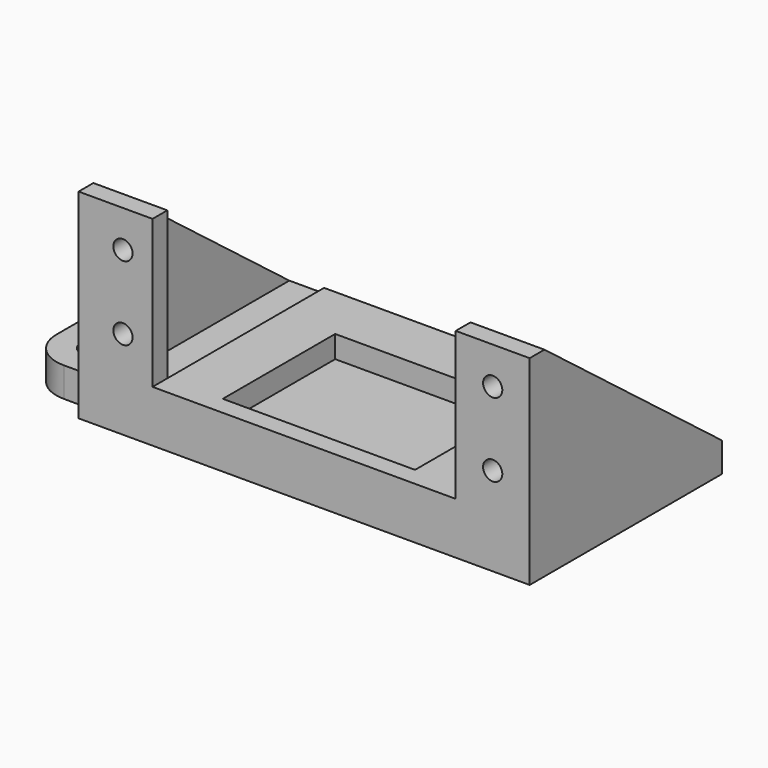
from build123d import *

# Parameters (mm, degrees)
F1_R      = 1.75
F1_W      = 26
F1_H      = 19
F1_W_2    = 2.5
F1_H_2    = 2.5
F1_W_3    = 7.5
F2_DEPTH  = 4
F3_DEPTH  = 7
F4_DEPTH  = 27
F6_DEPTH  = 2.5
F8_DEPTH  = 2.5
F9_R      = 5
F10_R     = 1.3
F11_DEPTH = 25


with BuildPart() as f2:
    # F1 (on Top) → F2 (new body)
    with BuildSketch(Plane.XY):
        Polygon((34, 35), (36.5, 35), (44, 35), (44, 61.5), (85, 61.5), (85, 35), (92.5, 35), (95, 35), (95, 65), (36.5, 65), (25, 65), (25, 35), align=None)
        with Locations((30, 40)):
            Circle(F1_R, mode=Mode.SUBTRACT)
        with Locations((90, 40)):
            Circle(F1_R, mode=Mode.SUBTRACT)
        with Locations((30, 50)):
            Circle(F1_R, mode=Mode.SUBTRACT)
        with Locations((30, 60)):
            Circle(F1_R, mode=Mode.SUBTRACT)
        with Locations((90, 50)):
            Circle(F1_R, mode=Mode.SUBTRACT)
        with Locations((90, 60)):
            Circle(F1_R, mode=Mode.SUBTRACT)
        Polygon((44, 61.5), (44, 35), (51.5, 35), (51.5, 54), (77.5, 54), (77.5, 35), (85, 35), (85, 61.5), align=None)
        with Locations((64.5, 44.5)):
            Rectangle(F1_W, F1_H)
        with Locations((35.25, 33.75)):
            Rectangle(F1_W_2, F1_H_2)
        with Locations((40.25, 33.75)):
            Rectangle(F1_W_3, F1_H_2)
        Polygon((51.5, 35), (44, 35), (44, 32.5), (85, 32.5), (85, 35), (77.5, 35), align=None)
        with Locations((88.75, 33.75)):
            Rectangle(F1_W_3, F1_H_2)
        with Locations((93.75, 33.75)):
            Rectangle(F1_W_2, F1_H_2)
    extrude(amount=F2_DEPTH)

    # F1 (on Top) → F3 (join)
    with BuildSketch(Plane.XY):
        Polygon((44, 61.5), (44, 35), (51.5, 35), (51.5, 54), (77.5, 54), (77.5, 35), (85, 35), (85, 61.5), align=None)
        Polygon((51.5, 35), (44, 35), (44, 32.5), (85, 32.5), (85, 35), (77.5, 35), align=None)
    extrude(amount=F3_DEPTH)

    # F1 (on Top) → F4 (join)
    with BuildSketch(Plane.XY):
        with Locations((40.25, 33.75)):
            Rectangle(F1_W_3, F1_H_2)
        with Locations((88.75, 33.75)):
            Rectangle(F1_W_3, F1_H_2)
        with Locations((93.75, 33.75)):
            Rectangle(F1_W_2, F1_H_2)
        with Locations((35.25, 33.75)):
            Rectangle(F1_W_2, F1_H_2)
    extrude(amount=F4_DEPTH)

    # F5 (on face) → F6 (join)
    with BuildSketch(Plane.YZ.offset(95)):
        Polygon((65, 4), (35, 27), (35, 4), align=None)
    extrude(amount=-F6_DEPTH)

    # F7 (on face) → F8 (join)
    with BuildSketch(Plane(origin=(34, 0, 0), x_dir=(0, -1, 0), z_dir=(-1, 0, 0))):
        Polygon((-65, 4), (-35, 4), (-35, 27), align=None)
    extrude(amount=-F8_DEPTH)

    # F9
    f9_edges = [f2.edges().sort_by_distance(p)[0] for p in [
        (25, 35, 2),
        (25, 65, 2),
    ]]
    fillet(f9_edges, radius=F9_R)

    # F10 (on face) → F11 (cut)
    with BuildSketch(Plane.XZ.offset(-32.5)):
        with Locations((40, 22)):
            Circle(F10_R)
        with Locations((40, 12)):
            Circle(F10_R)
        with Locations((90, 12)):
            Circle(F10_R)
        with Locations((90, 22)):
            Circle(F10_R)
    extrude(amount=-F11_DEPTH, mode=Mode.SUBTRACT)


solid = f2.part
